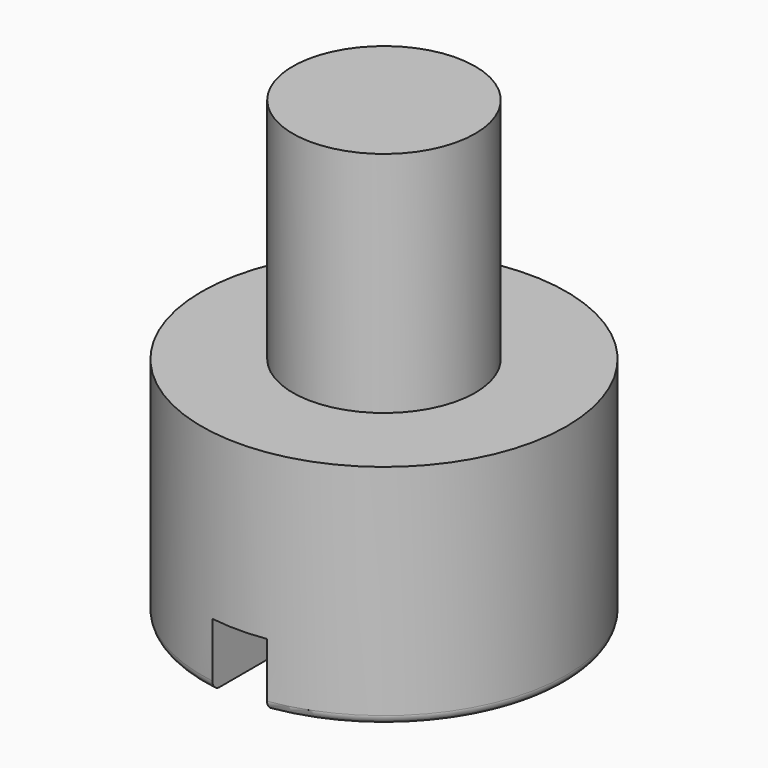
from build123d import *

# Parameters (mm, degrees)
F2_R     = 0.05
F3_W     = 0.3
F3_H     = 0.35
F4_DEPTH = 12.5


with BuildPart() as f1:
    # F0 (on Front) → F1 (revolve)
    with BuildSketch(Plane.XZ):
        Polygon((0, 2.5), (0, 0), (1, 0), (1, 1.25), (0.5, 1.25), (0.5, 2.5), align=None)
    revolve(axis=Axis((0, 0, 1.25), (0, 0, -1)))

    # F2
    f2_edges = [f1.edges().sort_by_distance(p)[0] for p in [
        (-1, 0, 0),
    ]]
    fillet(f2_edges, radius=F2_R)

    # F3 (on Front) → F4 (cut, symmetric)
    with BuildSketch(Plane.XZ):
        with Locations((0, 0.175)):
            Rectangle(F3_W, F3_H)
    extrude(amount=F4_DEPTH, both=True, mode=Mode.SUBTRACT)


solid = f1.part
